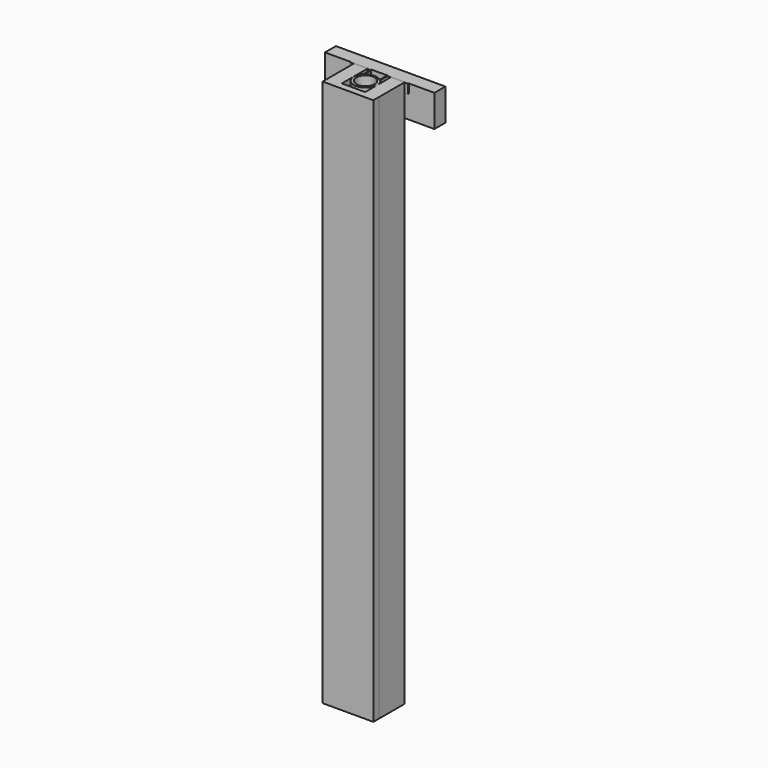
from build123d import *

# Parameters (mm, degrees)
F0_R     = 25.4
F1_DEPTH = 1524
F2_DEPTH = 25.4
F3_DEPTH = 88.9


with BuildPart() as f1:
    # F0 (on Top) → F1 (new body)
    with BuildSketch(Plane.XY):
        Polygon((-32.54375, 46.83125), (-70.64375, 46.83125), (-70.64375, -42.06875), (-32.54375, -42.06875), (-32.54375, 0), align=None)
        Polygon((70.64375, -42.06875), (70.64375, 46.83125), (32.54375, 46.83125), (32.54375, 0), (32.54375, -42.06875), (70.58025, -42.06875), align=None)
        Polygon((-32.54375, -42.06875), (-70.64375, -42.06875), (-70.64375, -61.11875), (70.58025, -61.11875), (70.58025, -42.06875), (32.54375, -42.06875), align=None)
        with BuildLine():
            ThreePointArc((-21.034375, 21.617851), (-11.73301, -27.786919), (30.1625, 0))
            ThreePointArc((30.1625, 0), (27.786919, 11.73301), (21.034375, 21.617851))
            ThreePointArc((21.034375, 21.617851), (0, 30.1625), (-21.034375, 21.617851))
        make_face()
        Circle(F0_R, mode=Mode.SUBTRACT)
    extrude(amount=-F1_DEPTH)


with BuildPart() as f2:
    # F0 (on Top) → F2 (new body)
    with BuildSketch(Plane.XY):
        with BuildLine():
            ThreePointArc((21.034375, 21.617851), (27.786919, 11.73301), (30.1625, 0))
            ThreePointArc((30.1625, 0), (-11.73301, -27.786919), (-21.034375, 21.617851))
            Line((-21.034375, 21.617851), (-21.034375, 42.8625))
            ThreePointArc((-21.034375, 42.8625), (-22.894247, 47.352628), (-27.384375, 49.2125))
            Line((-27.384375, 49.2125), (-80.9625, 49.2125))
            Line((-80.9625, 49.2125), (-80.9625, 46.83125))
            Line((-80.9625, 46.83125), (-70.64375, 46.83125))
            Line((-70.64375, 46.83125), (-32.54375, 46.83125))
            Line((-32.54375, 46.83125), (-29.765625, 46.83125))
            ThreePointArc((-29.765625, 46.83125), (-25.275497, 44.971378), (-23.415625, 40.48125))
            Line((-23.415625, 40.48125), (-23.415625, 25.034603))
            ThreePointArc((-23.415625, 25.034603), (-23.799824, 22.859351), (-24.905931, 20.947321))
            ThreePointArc((-24.905931, 20.947321), (-30.574729, 11.148167), (-32.54375, 0))
            ThreePointArc((-32.54375, 0), (0, -32.54375), (32.54375, 0))
            ThreePointArc((32.54375, 0), (30.574729, 11.148167), (24.905931, 20.947321))
            ThreePointArc((24.905931, 20.947321), (23.799824, 22.859351), (23.415625, 25.034603))
            Line((23.415625, 25.034603), (23.415625, 40.48125))
            ThreePointArc((23.415625, 40.48125), (25.275497, 44.971378), (29.765625, 46.83125))
            Line((29.765625, 46.83125), (32.54375, 46.83125))
            Line((32.54375, 46.83125), (70.64375, 46.83125))
            Line((70.64375, 46.83125), (80.9625, 46.83125))
            Line((80.9625, 46.83125), (80.9625, 49.2125))
            Line((80.9625, 49.2125), (27.384375, 49.2125))
            ThreePointArc((27.384375, 49.2125), (22.894247, 47.352628), (21.034375, 42.8625))
            Line((21.034375, 42.8625), (21.034375, 21.617851))
        make_face()
    extrude(amount=-F2_DEPTH)


with BuildPart() as f3:
    # F0 (on Top) → F3 (new body)
    with BuildSketch(Plane.XY):
        Polygon((-27.384375, 49.2125), (27.384375, 49.2125), (80.9625, 49.2125), (152.4, 49.2125), (152.4, 87.3125), (-152.4, 87.3125), (-152.4, 49.2125), (-80.9625, 49.2125), align=None)
    extrude(amount=-F3_DEPTH)


solid = Compound([f1.part, f2.part, f3.part])
